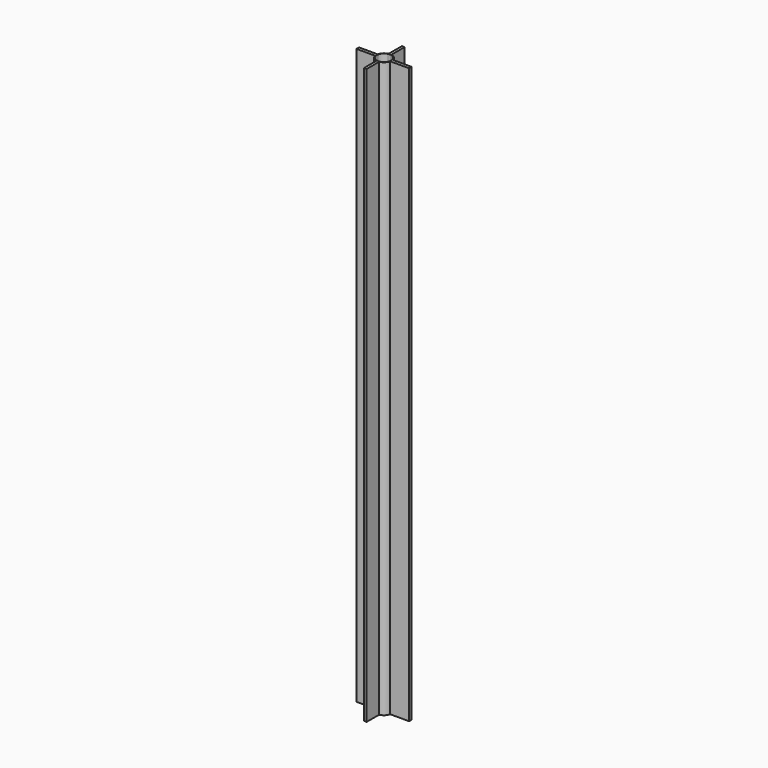
from build123d import *

# Parameters (mm, degrees)
F1_DEPTH = 119.38


with BuildPart() as f1:
    # F0 (on Top) → F1 (new body)
    with BuildSketch(Plane.XY):
        with BuildLine():
            ThreePointArc((-0.2981865255, 1.5756281364), (-0.0186472924, 1.6034872954), (0.2614642144, 1.582136433))
            Line((0.2614642144, 1.582136433), (0.2614642144, 5.0319428556))
            Line((0.2614642144, 5.0319428556), (-0.2981865255, 5.0319428556))
            Line((-0.2981865255, 5.0319428556), (-0.2981865255, 1.5756281364))
        make_face()
        with BuildLine():
            ThreePointArc((-1.5680815915, -0.335617864), (-1.6035878514, -0.0050230288), (-1.5701533579, 0.3257877543))
            Line((-1.5701533579, 0.3257877543), (-5.4622376338, 0.3257877543))
            Line((-5.4622376338, 0.3257877543), (-5.4622376338, -0.335617864))
            Line((-5.4622376338, -0.335617864), (-1.5680815915, -0.335617864))
        make_face()
        with BuildLine():
            Line((5.4763928056, 0.3257877543), (1.5701533579, 0.3257877543))
            ThreePointArc((1.5701533579, 0.3257877543), (1.5952132193, 0.1637498491), (1.6035957184, 0))
            ThreePointArc((1.6035957184, 0), (1.594692471, -0.1687458176), (1.5680815915, -0.335617864))
            Line((1.5680815915, -0.335617864), (5.4763928056, -0.335617864))
            Line((5.4763928056, -0.335617864), (5.4763928056, 0.3257877543))
        make_face()
        with BuildLine():
            Line((0.2614642144, -4.8128245398), (0.2614642144, -1.582136433))
            ThreePointArc((0.2614642144, -1.582136433), (-0.0186472924, -1.6034872954), (-0.2981865255, -1.5756281364))
            Line((-0.2981865255, -1.5756281364), (-0.2981865255, -4.8128245398))
            Line((-0.2981865255, -4.8128245398), (0.2614642144, -4.8128245398))
        make_face()
        with BuildLine():
            ThreePointArc((0.2614642144, 1.4770363789), (1.0372159405, 1.0835972927), (1.4641934091, 0.3257877543))
            Line((1.4641934091, 0.3257877543), (1.5701533579, 0.3257877543))
            ThreePointArc((1.5701533579, 0.3257877543), (1.1105443411, 1.1568104835), (0.2614642144, 1.582136433))
            Line((0.2614642144, 1.582136433), (0.2614642144, 1.4770363789))
        make_face()
        with BuildLine():
            ThreePointArc((-0.2981865255, 1.4700628544), (-0.0186892895, 1.4998835656), (0.2614642144, 1.4770363789))
            Line((0.2614642144, 1.4770363789), (0.2614642144, 1.582136433))
            ThreePointArc((0.2614642144, 1.582136433), (-0.0186472924, 1.6034872954), (-0.2981865255, 1.5756281364))
            Line((-0.2981865255, 1.5756281364), (-0.2981865255, 1.4700628544))
        make_face()
        with BuildLine():
            ThreePointArc((-1.4641934091, 0.3257877543), (-1.0506365378, 1.0705899614), (-0.2981865255, 1.4700628544))
            Line((-0.2981865255, 1.4700628544), (-0.2981865255, 1.5756281364))
            ThreePointArc((-0.2981865255, 1.5756281364), (-1.1239211383, 1.1438183872), (-1.5701533579, 0.3257877543))
            Line((-1.5701533579, 0.3257877543), (-1.4641934091, 0.3257877543))
        make_face()
        with BuildLine():
            ThreePointArc((-1.461971494, -0.335617864), (-1.499991536, -0.0050390467), (-1.4641934091, 0.3257877543))
            Line((-1.4641934091, 0.3257877543), (-1.5701533579, 0.3257877543))
            ThreePointArc((-1.5701533579, 0.3257877543), (-1.6035878514, -0.0050230288), (-1.5680815915, -0.335617864))
            Line((-1.5680815915, -0.335617864), (-1.461971494, -0.335617864))
        make_face()
        with BuildLine():
            Line((-0.2981865255, -1.5756281364), (-0.2981865255, -1.4700628544))
            ThreePointArc((-0.2981865255, -1.4700628544), (-1.0470341076, -1.0741133914), (-1.461971494, -0.335617864))
            Line((-1.461971494, -0.335617864), (-1.5680815915, -0.335617864))
            ThreePointArc((-1.5680815915, -0.335617864), (-1.1203327809, -1.1473332943), (-0.2981865255, -1.5756281364))
        make_face()
        with BuildLine():
            Line((0.2614642144, -1.582136433), (0.2614642144, -1.4770363789))
            ThreePointArc((0.2614642144, -1.4770363789), (-0.0186892895, -1.4998835656), (-0.2981865255, -1.4700628544))
            Line((-0.2981865255, -1.4700628544), (-0.2981865255, -1.5756281364))
            ThreePointArc((-0.2981865255, -1.5756281364), (-0.0186472924, -1.6034872954), (0.2614642144, -1.582136433))
        make_face()
        with BuildLine():
            Line((1.5680815915, -0.335617864), (1.461971494, -0.335617864))
            ThreePointArc((1.461971494, -0.335617864), (1.0335698897, -1.0870755646), (0.2614642144, -1.4770363789))
            Line((0.2614642144, -1.4770363789), (0.2614642144, -1.582136433))
            ThreePointArc((0.2614642144, -1.582136433), (1.1069153534, -1.1602834259), (1.5680815915, -0.335617864))
        make_face()
        with BuildLine():
            ThreePointArc((1.4641934091, 0.3257877543), (1.491021481, 0.163874779), (1.5, 0))
            ThreePointArc((1.5, 0), (1.4904625525, -0.1688827389), (1.461971494, -0.335617864))
            Line((1.461971494, -0.335617864), (1.5680815915, -0.335617864))
            ThreePointArc((1.5680815915, -0.335617864), (1.594692471, -0.1687458176), (1.6035957184, 0))
            ThreePointArc((1.6035957184, 0), (1.5952132193, 0.1637498491), (1.5701533579, 0.3257877543))
            Line((1.5701533579, 0.3257877543), (1.4641934091, 0.3257877543))
        make_face()
    extrude(amount=F1_DEPTH)


solid = f1.part
